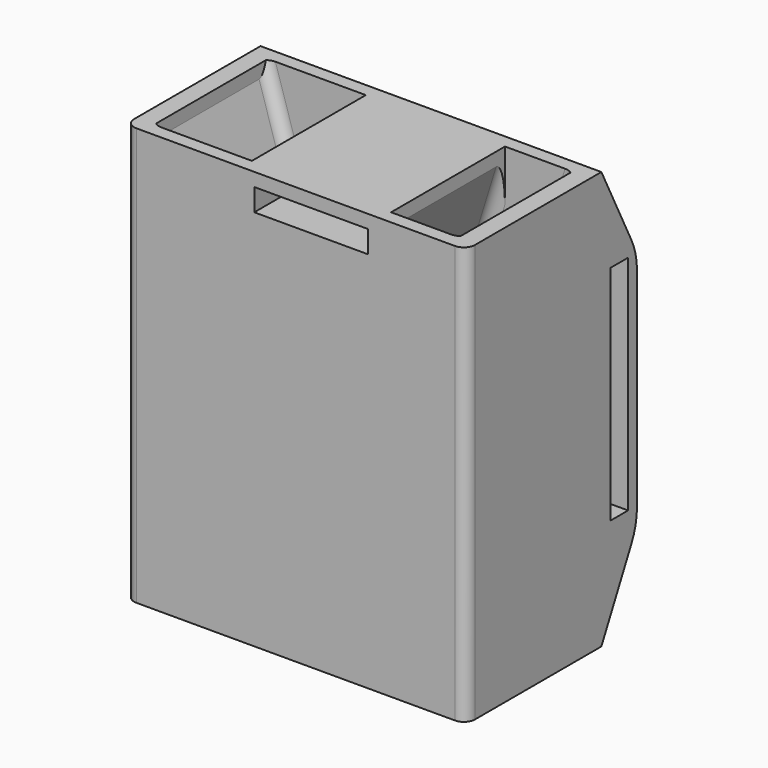
from build123d import *

# Parameters (mm, degrees)
F1_DEPTH  = 3
F2_START  = 3
F2_DEPTH  = 32
F3_START  = 35
F3_DEPTH  = 3
F4_W      = 5
F4_H      = 50
F5_DEPTH  = 76.5907008807
F6_R      = 15
F8_R      = 2.5
F9_R      = 2.5
F7_W      = 25.5907008807
F7_H      = 5
F10_DEPTH = 35


with BuildPart() as f1:
    # F0 (on Front) → F1 (new body)
    with BuildSketch(Plane.XZ):
        Polygon((-29.1335783188, 93.8650974194), (0, 0), (18.3235442432, 0), (47.457122562, 93.8650974194), (43.384812198, 93.8650974194), (43.384812198, 90.8650974194), (16.1134965809, 3), (0.9311313508, 3), (28.2024469679, 90.8650974194), (28.2024469679, 93.8650974194), (-3.0730148629, 93.8650974194), (-3.0730148629, 90.8650974194), (10.9941265459, 45.5423573046), (0, 10.1205238455), (-25.0612679548, 90.8650974194), (-25.0612679548, 93.8650974194), align=None)
        Polygon((-3.0730148629, 93.8650974194), (-25.0612679548, 93.8650974194), (-25.0612679548, 90.8650974194), (0, 10.1205238455), (10.9941265459, 45.5423573046), (-3.0730148629, 90.8650974194), align=None)
        Polygon((43.384812198, 90.8650974194), (43.384812198, 93.8650974194), (28.2024469679, 93.8650974194), (28.2024469679, 90.8650974194), (0.9311313508, 3), (16.1134965809, 3), align=None)
        Polygon((-29.1335783188, 0), (0, 0), (-29.1335783188, 93.8650974194), align=None)
        Polygon((47.457122562, 93.8650974194), (18.3235442432, 0), (47.457122562, 0), align=None)
    extrude(amount=F1_DEPTH)

    # F0 (on Front) → F2 (join)
    with BuildSketch(Plane.XZ.offset(F2_START)):
        Polygon((-29.1335783188, 93.8650974194), (0, 0), (18.3235442432, 0), (47.457122562, 93.8650974194), (43.384812198, 93.8650974194), (43.384812198, 90.8650974194), (16.1134965809, 3), (0.9311313508, 3), (28.2024469679, 90.8650974194), (28.2024469679, 93.8650974194), (-3.0730148629, 93.8650974194), (-3.0730148629, 90.8650974194), (10.9941265459, 45.5423573046), (0, 10.1205238455), (-25.0612679548, 90.8650974194), (-25.0612679548, 93.8650974194), align=None)
        Polygon((-29.1335783188, 0), (0, 0), (-29.1335783188, 93.8650974194), align=None)
        Polygon((47.457122562, 93.8650974194), (18.3235442432, 0), (47.457122562, 0), align=None)
    extrude(amount=F2_DEPTH)

    # F0 (on Front) → F3 (join)
    with BuildSketch(Plane.XZ.offset(F3_START)):
        Polygon((-29.1335783188, 93.8650974194), (0, 0), (18.3235442432, 0), (47.457122562, 93.8650974194), (43.384812198, 93.8650974194), (43.384812198, 90.8650974194), (16.1134965809, 3), (0.9311313508, 3), (28.2024469679, 90.8650974194), (28.2024469679, 93.8650974194), (-3.0730148629, 93.8650974194), (-3.0730148629, 90.8650974194), (10.9941265459, 45.5423573046), (0, 10.1205238455), (-25.0612679548, 90.8650974194), (-25.0612679548, 93.8650974194), align=None)
        Polygon((-3.0730148629, 93.8650974194), (-25.0612679548, 93.8650974194), (-25.0612679548, 90.8650974194), (0, 10.1205238455), (10.9941265459, 45.5423573046), (-3.0730148629, 90.8650974194), align=None)
        Polygon((43.384812198, 90.8650974194), (43.384812198, 93.8650974194), (28.2024469679, 93.8650974194), (28.2024469679, 90.8650974194), (0.9311313508, 3), (16.1134965809, 3), align=None)
        Polygon((-29.1335783188, 0), (0, 0), (-29.1335783188, 93.8650974194), align=None)
        Polygon((47.457122562, 93.8650974194), (18.3235442432, 0), (47.457122562, 0), align=None)
    extrude(amount=F3_DEPTH)

    # F4 (on face) → F5 (join, through all)
    with BuildSketch(Plane.YZ.offset(47.457122562)):
        Polygon((10, 73.8650974194), (0, 93.8650974194), (0, 0), (10, 20), align=None)
        with Locations((5, 48.8650974194)):
            Rectangle(F4_W, F4_H, mode=Mode.SUBTRACT)
    extrude(amount=-F5_DEPTH)

    # F6
    f6_edges = [f1.edges().sort_by_distance(p)[0] for p in [
        (9.161772, 10, 73.865097),
        (9.161772, 10, 20),
    ]]
    fillet(f6_edges, radius=F6_R)

    # F8
    f8_edges = [f1.edges().sort_by_distance(p)[0] for p in [
        (-12.530634, -3, 50.492811),
        (3.960556, -3, 68.203727),
        (3.960556, -35, 68.203727),
        (-12.530634, -35, 50.492811),
        (29.749154, -35, 46.932549),
        (29.749154, -3, 46.932549),
        (14.566789, -3, 46.932549),
        (14.566789, -35, 46.932549),
    ]]
    fillet(f8_edges, radius=F8_R)

    # F9
    f9_edges = [f1.edges().sort_by_distance(p)[0] for p in [
        (-29.133578, -38, 46.932549),
        (47.457123, -38, 46.932549),
    ]]
    fillet(f9_edges, radius=F9_R)

    # F7 (on face) → F10 (cut)
    with BuildSketch(Plane.XZ.offset(38)):
        with Locations((12.6617721216, 88.3650974194)):
            Rectangle(F7_W, F7_H)
    extrude(amount=-F10_DEPTH, mode=Mode.SUBTRACT)


solid = f1.part
